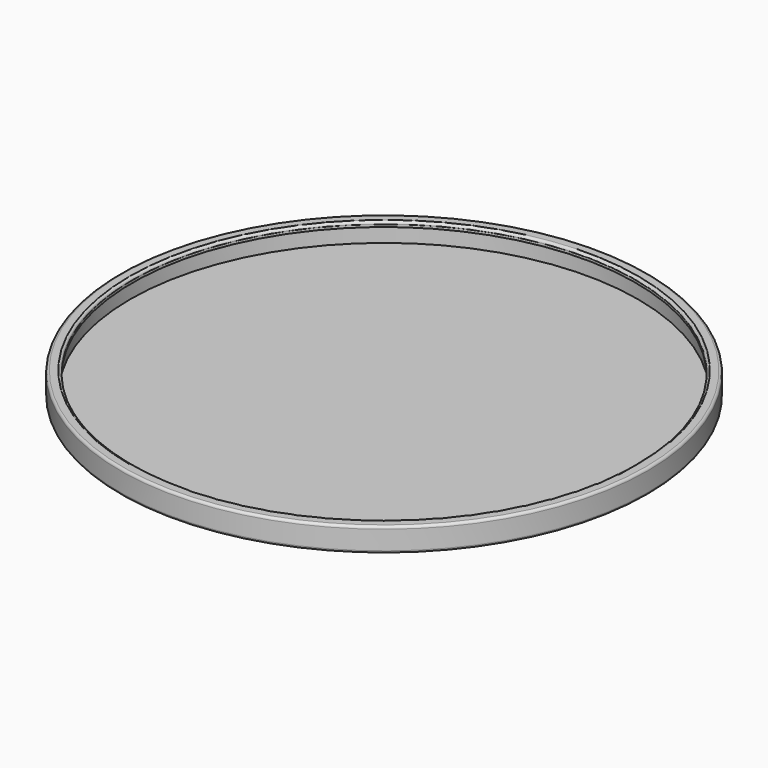
from build123d import *


with BuildPart() as part:
    # Sketch → Revolution (revolve)
    with BuildSketch(Plane.XZ):
        with BuildLine():
            Line((0, 0), (52.25, 0))
            ThreePointArc((52.25, 0), (52.603553, 0.146447), (52.75, 0.5))
            Line((52.75, 4.3), (52.75, 0.5))
            ThreePointArc((52.75, 4.3), (52.603553, 4.653553), (52.25, 4.8))
            Line((50.85, 4.8), (52.25, 4.8))
            ThreePointArc((50.85, 4.8), (50.496447, 4.653553), (50.35, 4.3))
            Line((50.35, 3.8), (50.35, 4.3))
            Line((50.75, 3.8), (50.35, 3.8))
            Line((50.75, 0.8), (50.75, 3.8))
            Line((0, 0.8), (50.75, 0.8))
            Line((0, 0), (0, 0.8))
        make_face()
    revolve(axis=Axis((0, 0, 0), (0, 0, 1)))


solid = part.part
